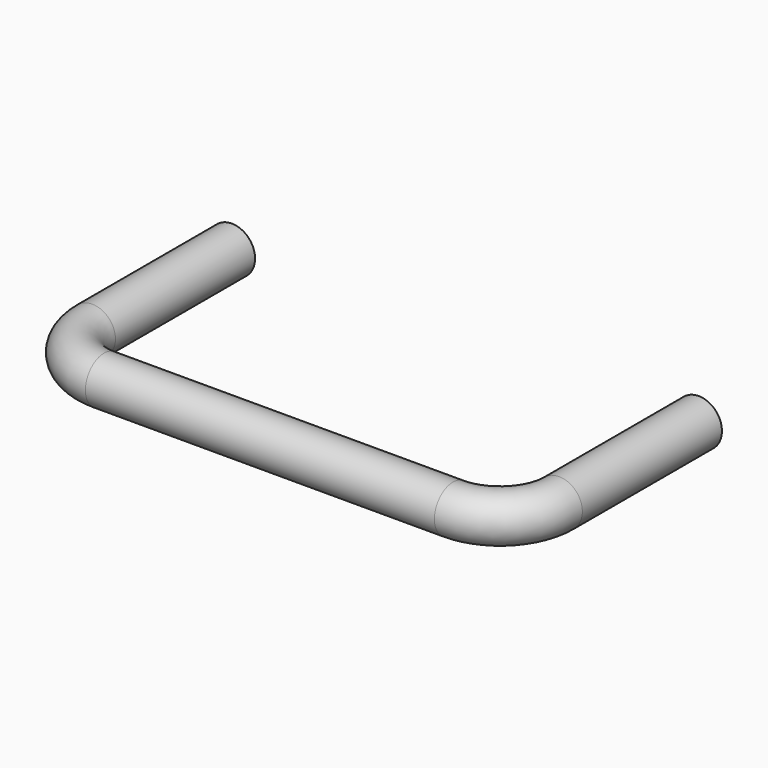
from build123d import *

# Parameters (mm, degrees)
F1_R = 4


with BuildPart() as f2:
    # F2: sweep along a path in F0
    with BuildLine(Plane.XY) as f2_path:
        Line((-40, 0), (-40, -30))
        ThreePointArc((-40, -30), (-37.071068, -37.071068), (-30, -40))
        Line((-30, -40), (0, -40))
        Line((0, -40), (30, -40))
        ThreePointArc((30, -40), (37.071068, -37.071068), (40, -30))
        Line((40, -30), (40, 0))
    # F1 (on Front) → F2 (sweep)
    with BuildSketch(Plane.XZ):
        with Locations((-40.13129, 0)):
            Circle(F1_R)
    sweep(path=f2_path.line)


solid = f2.part
